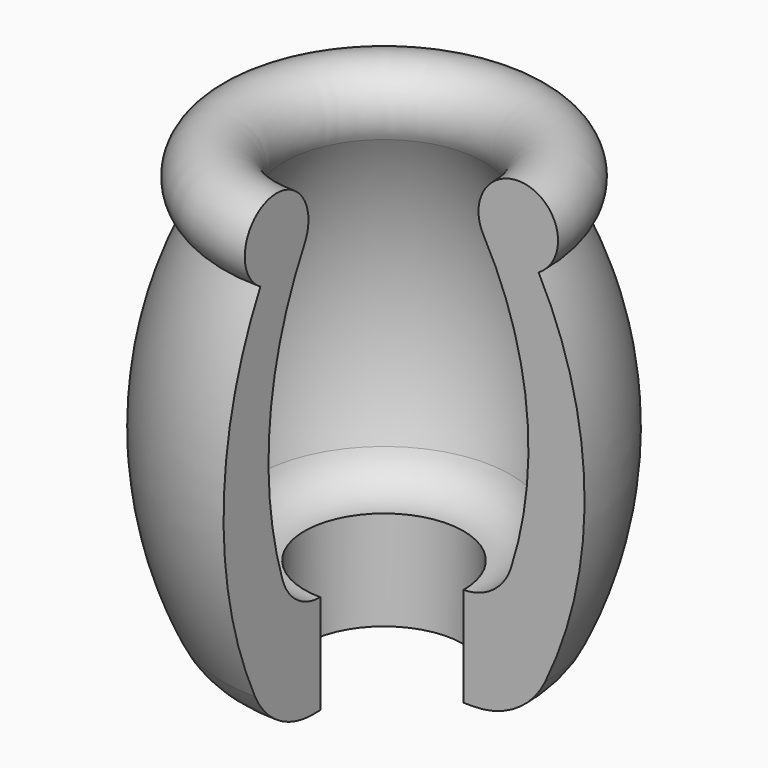
from build123d import *

# Parameters (mm, degrees)
F1_ANGLE = 270


with BuildPart() as f1:
    # F0 (on Front) → F1 (revolve)
    with BuildSketch(Plane.XZ):
        with BuildLine():
            ThreePointArc((161.981836, 170.845895), (138.910952, 139.11768), (101.6, 127))
            Line((101.6, 127), (101.6, 0))
            Line((101.6, 0), (114.3, 0))
            ThreePointArc((114.3, 0), (168.353269, 15.572073), (205.837217, 57.514879))
            ThreePointArc((205.837217, 57.514879), (256.064485, 287.322693), (197.384328, 515.118761))
            ThreePointArc((197.384328, 515.118761), (184.718228, 607.836661), (127.028262, 534.155545))
            ThreePointArc((127.028262, 534.155545), (182.331241, 356.139931), (161.981836, 170.845895))
        make_face()
    revolve(axis=Axis((0, 0, 359.91569), (0, 0, 1)), revolution_arc=F1_ANGLE)


solid = f1.part
